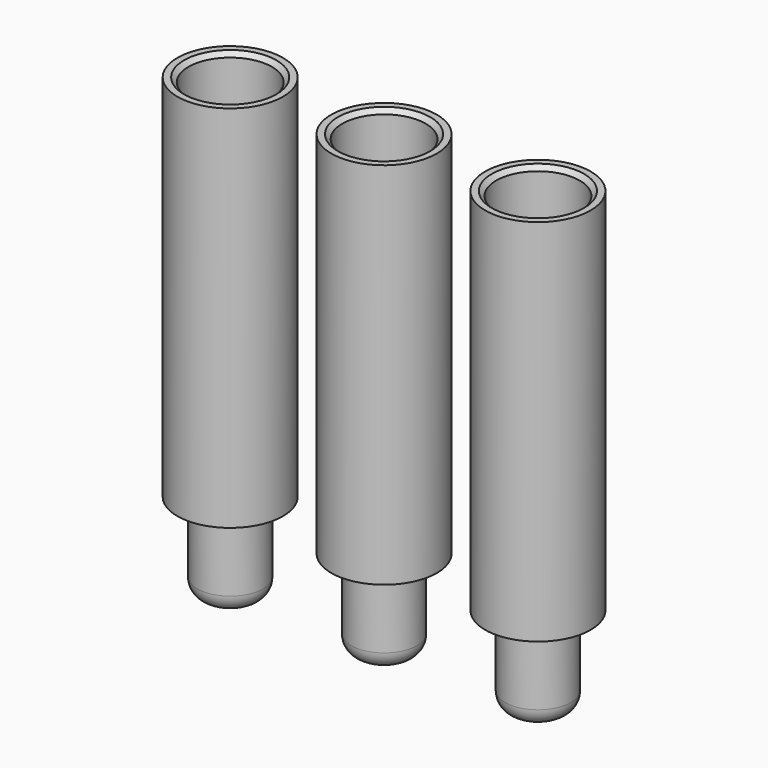
from build123d import *

# Parameters (mm, degrees)
SKETCH013_R      = 0.75
EXTRUDE022_DEPTH = 2
FILLET017_R      = 0.4
SKETCH010_R      = 0.95
EXTRUDE016_DEPTH = 7.5
SKETCH009_R      = 1.2
EXTRUDE015_DEPTH = 8.4
CHAMFER001_SIZE  = 0.1
ARRAY003_X_COUNT = 3
ARRAY003_X_PITCH = 3.5


with BuildPart() as fillet017:
    # Sketch013 → Extrude022 (new body)
    with BuildSketch(Plane(origin=(0, 0, -2.8), x_dir=(1, 0, 0), z_dir=(0, 0, -1))):
        with Locations((-3.5, 0)):
            Circle(SKETCH013_R)
    extrude(amount=EXTRUDE022_DEPTH)

    # Fillet017
    fillet017_edges = [fillet017.edges().sort_by_distance(p)[0] for p in [
        (-4.25, 0, -4.8),
    ]]
    fillet(fillet017_edges, radius=FILLET017_R)


with BuildPart() as extrude016:
    # Sketch010 → Extrude016 (new body)
    with BuildSketch(Plane.XY.offset(7.2)):
        with Locations((-3.5, 0)):
            Circle(SKETCH010_R)
    extrude(amount=-EXTRUDE016_DEPTH)


with BuildPart() as array003:
    # Sketch009 → Extrude015 (new body)
    with BuildSketch(Plane.XY.offset(7)):
        with Locations((-3.5, 0)):
            Circle(SKETCH009_R)
    extrude(amount=-EXTRUDE015_DEPTH)


with BuildPart() as array003_1:
    # Extrude015 placement: moved
    add(array003.part.moved(Location((0, 0, -1.4))))

    # Cut003: cut Extrude016
    add(extrude016.part, mode=Mode.SUBTRACT)

    # Chamfer001
    chamfer001_edges = [array003_1.edges().sort_by_distance(p)[0] for p in [
        (-4.45, 0, 5.6),
    ]]
    chamfer(chamfer001_edges, length=CHAMFER001_SIZE)

    # Fusion011: union Fillet017
    add(fillet017.part)

    # Array003 X: Array003 ×3


with BuildPart() as array003_2:
    add(array003_1.part)
    with Locations(*[(i * ARRAY003_X_PITCH, 0, 0) for i in range(1, ARRAY003_X_COUNT)]):
        add(array003_1.part)


solid = array003_2.part
